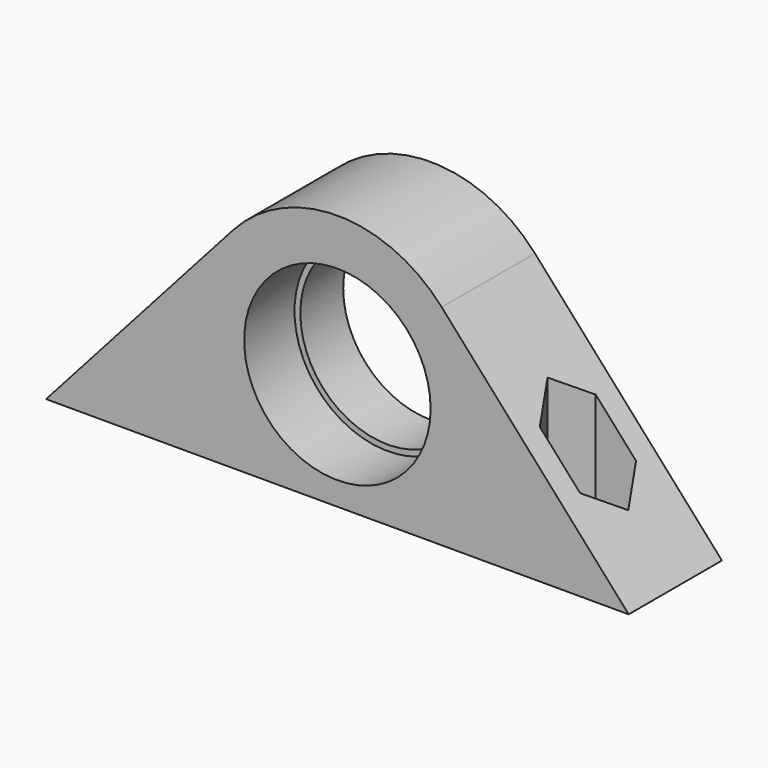
from build123d import *

# Parameters (mm, degrees)
PAD_DEPTH        = 5
HOLE_D           = 15
HOLE_CBORE_D     = 16
HOLE_CBORE_DEPTH = 5.4
SKETCH002_R      = 1.5
HOLE001_DEPTH    = 25
POCKET_DEPTH     = 18


with BuildPart() as part:
    # Sketch → Pad (new body, symmetric)
    with BuildSketch(Plane.XZ):
        with BuildLine():
            Line((-25, 0), (25, 0))
            Line((8.955135, 17.987838), (25, 0))
            ThreePointArc((8.955135, 17.987838), (0, 22), (-8.955135, 17.987838))
            Line((-8.955135, 17.987838), (-25, 0))
        make_face()
    extrude(amount=PAD_DEPTH, both=True)

    # Hole (through all)
    with Locations(Plane.XZ.offset(5)):
        with Locations((0, 10)):
            CounterBoreHole(HOLE_D / 2, HOLE_CBORE_D / 2, HOLE_CBORE_DEPTH)

    # Sketch002 (on Face6 of Hole) → Hole001 (cut)
    with BuildSketch(Plane(origin=(0, 0, 0), x_dir=(1, 0, 0), z_dir=(0, 0, -1))):
        with Locations((-17.5, 0)):
            Circle(SKETCH002_R)
        with Locations((17.5, 0)):
            Circle(SKETCH002_R)
    extrude(amount=-HOLE001_DEPTH, mode=Mode.SUBTRACT)

    # Sketch003 → Pocket (cut)
    with BuildSketch(Plane.XY.offset(20)):
        Polygon((-15.767949, 3), (-19.232051, 3), (-20.964102, 0), (-19.232051, -3), (-15.767949, -3), (-14.035898, 0), align=None)
        Polygon((15.767949, 3), (14.035898, 0), (15.767949, -3), (19.232051, -3), (20.964102, 0), (19.232051, 3), align=None)
    extrude(amount=-POCKET_DEPTH, mode=Mode.SUBTRACT)


solid = part.part
